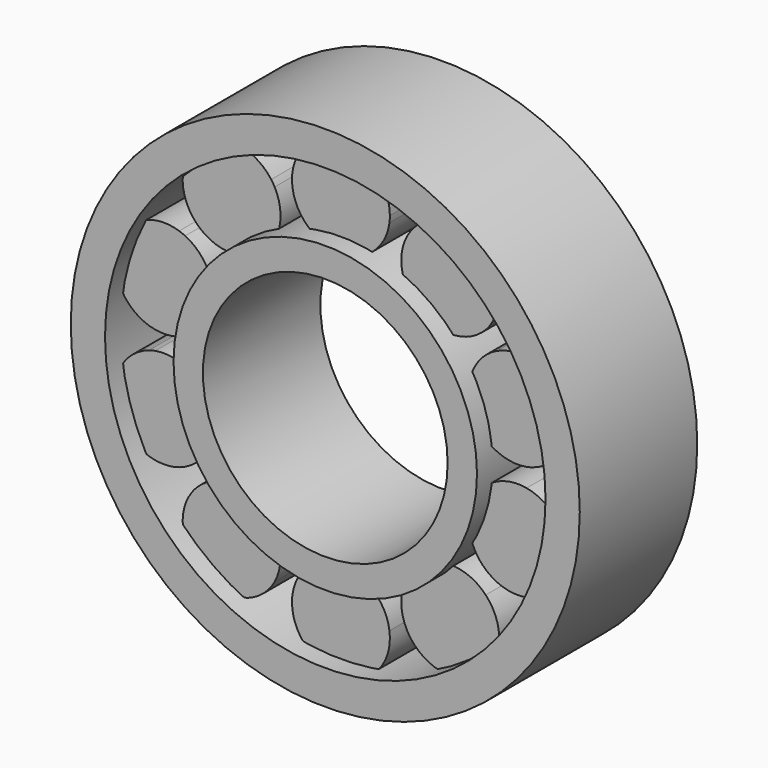
from build123d import *

# Parameters (mm, degrees)
F0_R     = 26
F0_R_2   = 22.5
F1_DEPTH = 15
F0_R_3   = 15.5
F0_R_4   = 12.5
F4_DEPTH = 5.5
F5_COUNT = 10


with BuildPart() as f1:
    # F0 (on Front) → F1 (new body)
    with BuildSketch(Plane.XZ):
        Circle(F0_R)
        Circle(F0_R_2, mode=Mode.SUBTRACT)
    extrude(amount=F1_DEPTH)


with BuildPart() as f1b:
    # F0 (on Front) → F1, piece 2 (new body)
    with BuildSketch(Plane.XZ):
        Circle(F0_R_3)
        Circle(F0_R_4, mode=Mode.SUBTRACT)
    extrude(amount=F1_DEPTH)


with BuildPart() as f4:
    # F3 (on offset) → F4 (new body, symmetric)
    with BuildSketch(Plane.XZ.offset(7.5)):
        with BuildLine():
            ThreePointArc((-4.9565284742, 18.3421052632), (0, 14), (4.9565284742, 18.3421052632))
            ThreePointArc((4.9565284742, 18.3421052632), (0, 19), (-4.9565284742, 18.3421052632))
        make_face()
        with BuildLine():
            ThreePointArc((-4.9565284742, 18.3421052632), (0, 19), (4.9565284742, 18.3421052632))
            ThreePointArc((4.9565284742, 18.3421052632), (4.9891202817, 18.6703352998), (5, 19))
            ThreePointArc((5, 19), (-0.3296647002, 23.9891202817), (-4.9565284742, 18.3421052632))
        make_face()
    extrude(amount=F4_DEPTH, both=True)


with BuildPart() as f5_1:
    # F5: instance of F4
    add(f4.part.rotate(Axis((0, -15, 0), (0, -1, 0)), 1 * 360 / F5_COUNT))


with BuildPart() as f5_2:
    # F5: instance of F4
    add(f4.part.rotate(Axis((0, -15, 0), (0, -1, 0)), 2 * 360 / F5_COUNT))


with BuildPart() as f5_3:
    # F5: instance of F4
    add(f4.part.rotate(Axis((0, -15, 0), (0, -1, 0)), 3 * 360 / F5_COUNT))


with BuildPart() as f5_4:
    # F5: instance of F4
    add(f4.part.rotate(Axis((0, -15, 0), (0, -1, 0)), 4 * 360 / F5_COUNT))


with BuildPart() as f5_5:
    # F5: instance of F4
    add(f4.part.rotate(Axis((0, -15, 0), (0, -1, 0)), 5 * 360 / F5_COUNT))


with BuildPart() as f5_6:
    # F5: instance of F4
    add(f4.part.rotate(Axis((0, -15, 0), (0, -1, 0)), 6 * 360 / F5_COUNT))


with BuildPart() as f5_7:
    # F5: instance of F4
    add(f4.part.rotate(Axis((0, -15, 0), (0, -1, 0)), 7 * 360 / F5_COUNT))


with BuildPart() as f5_8:
    # F5: instance of F4
    add(f4.part.rotate(Axis((0, -15, 0), (0, -1, 0)), 8 * 360 / F5_COUNT))


with BuildPart() as f5_9:
    # F5: instance of F4
    add(f4.part.rotate(Axis((0, -15, 0), (0, -1, 0)), 9 * 360 / F5_COUNT))


solid = Compound([f1.part, f1b.part, f4.part, f5_1.part, f5_2.part, f5_3.part, f5_4.part, f5_5.part, f5_6.part, f5_7.part, f5_8.part, f5_9.part])
